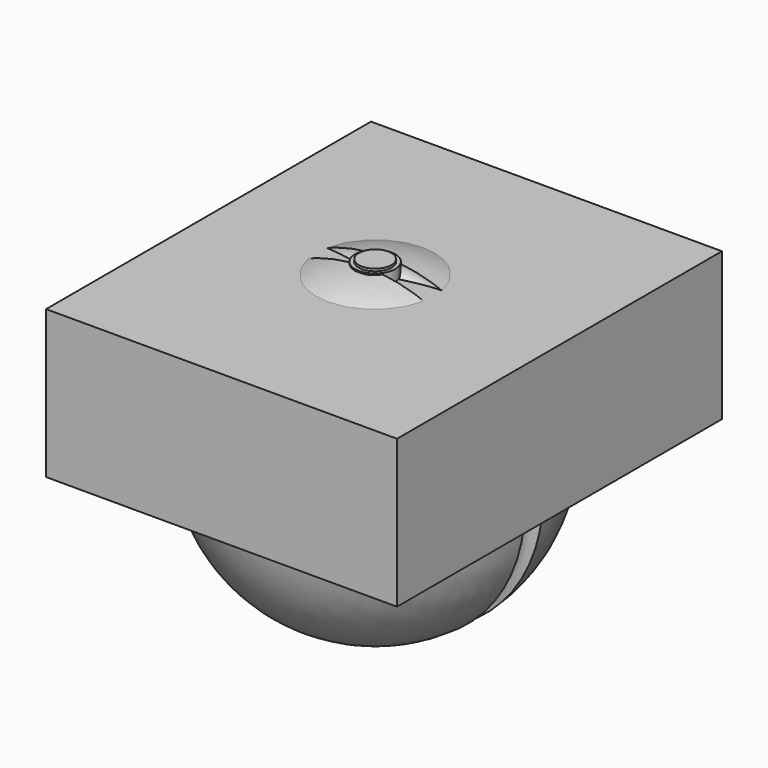
from build123d import *

# Parameters (mm, degrees)
F2_W     = 77.136081
F2_H     = 89.264393
F3_DEPTH = 32.5
F4_R     = 4.416171
F4_R_2   = 3.610503
F6_DEPTH = 2.5
F5_R     = 3.586062
F7_DEPTH = 3


with BuildPart() as f1:
    # F0 (on Top) → F1 (revolve)
    with BuildSketch(Plane.XY):
        with BuildLine():
            Line((0, -35), (0, 35))
            ThreePointArc((0, 35), (-23.849065, 25.616832), (-34.910714, 2.498405))
            ThreePointArc((-34.910714, 2.498405), (-33.200943, 1.735913), (-32.5, 0))
            ThreePointArc((-32.5, 0), (-33.200943, -1.735913), (-34.910714, -2.498405))
            ThreePointArc((-34.910714, -2.498405), (-23.849065, -25.616832), (0, -35))
        make_face()
    revolve(axis=Axis((0, 0, 0), (0, -1, 0)))


with BuildPart() as f3:
    # F2 (on Top) → F3 (new body)
    with BuildSketch(Plane.XY):
        with Locations((2.494181, -0.68779)):
            Rectangle(F2_W, F2_H)
    extrude(amount=F3_DEPTH)


with BuildPart() as f6:
    # F4 (on face) → F6 (new body)
    with BuildSketch(Plane.XY.offset(32.5)):
        Circle(F4_R)
        Circle(F4_R_2, mode=Mode.SUBTRACT)
    extrude(amount=F6_DEPTH)


with BuildPart() as f7:
    # F5 (on face) → F7 (new body)
    with BuildSketch(Plane.XY.offset(32.5)):
        Circle(F5_R)
    extrude(amount=F7_DEPTH)


solid = Compound([f1.part, f3.part, f6.part, f7.part])
